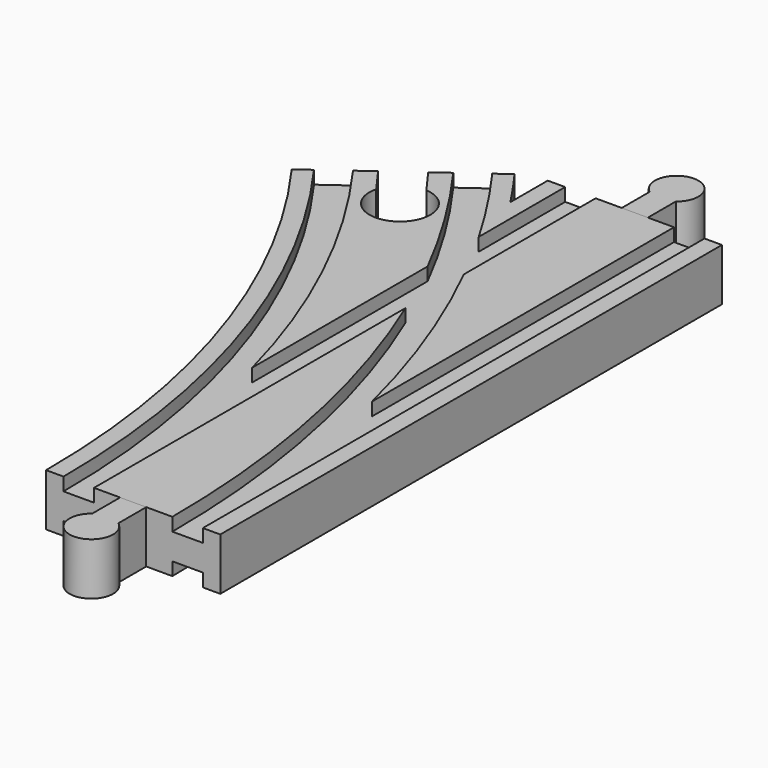
from build123d import *

# Parameters (mm, degrees)
SKETCH004_W       = 7
SKETCH004_H       = 3
SKETCH005_W       = 7
SKETCH005_H       = 3
SKETCH009_W       = 7
SKETCH009_H       = 3
SKETCH010_W       = 7
SKETCH010_H       = 3
POCKET_DEPTH      = 6.001
POCKET_DEPTH_BACK = -6.001
PAD_DEPTH         = 6
PAD001_DEPTH      = 6


with BuildPart() as body:
    # AdditivePipe: sweep along a path in Sketch002
    with BuildLine(Plane.XY) as additivepipe_path:
        ThreePointArc((0, 0), (-10.865453, 68.601773), (-42.398227, 130.488326))
    # Sketch → AdditivePipe (sweep)
    with BuildSketch(Plane.XZ):
        Polygon((-20, 6), (-20, -6), (-16, -6), (-16, -3), (-9, -3), (-9, -6), (9, -6), (9, -3), (16, -3), (16, -6), (20, -6), (20, 6), (16, 6), (16, 3), (9, 3), (9, 6), (-9, 6), (-9, 3), (-16, 3), (-16, 6), align=None)
    sweep(path=additivepipe_path.line)

    # AdditivePipe001: sweep along a path in Sketch001
    with BuildLine(Plane.XY) as additivepipe001_path:
        Line((0, 0), (0, 144))
    # Sketch → AdditivePipe001 (sweep)
    with BuildSketch(Plane.XZ):
        Polygon((-20, 6), (-20, -6), (-16, -6), (-16, -3), (-9, -3), (-9, -6), (9, -6), (9, -3), (16, -3), (16, -6), (20, -6), (20, 6), (16, 6), (16, 3), (9, 3), (9, 6), (-9, 6), (-9, 3), (-16, 3), (-16, 6), align=None)
    sweep(path=additivepipe001_path.line)

    # SubtractivePipe: sweep along a path in Sketch001
    with BuildLine(Plane.XY) as subtractivepipe_path:
        Line((0, 0), (0, 144))
    # Sketch004 → SubtractivePipe (sweep, cut)
    with BuildSketch(Plane.XZ):
        with Locations((-12.5, 4.5)):
            Rectangle(SKETCH004_W, SKETCH004_H)
    sweep(path=subtractivepipe_path.line, mode=Mode.SUBTRACT)

    # SubtractivePipe001: sweep along a path in Sketch002
    with BuildLine(Plane.XY) as subtractivepipe001_path:
        ThreePointArc((0, 0), (-10.865453, 68.601773), (-42.398227, 130.488326))
    # Sketch004 → SubtractivePipe001 (sweep, cut)
    with BuildSketch(Plane.XZ):
        with Locations((-12.5, 4.5)):
            Rectangle(SKETCH004_W, SKETCH004_H)
    sweep(path=subtractivepipe001_path.line, mode=Mode.SUBTRACT)

    # SubtractivePipe002: sweep along a path in Sketch002
    with BuildLine(Plane.XY) as subtractivepipe002_path:
        ThreePointArc((0, 0), (-10.865453, 68.601773), (-42.398227, 130.488326))
    # Sketch005 (on Face1 of SubtractivePipe001) → SubtractivePipe002 (sweep, cut)
    with BuildSketch(Plane.XZ):
        with Locations((12.5, 4.5)):
            Rectangle(SKETCH005_W, SKETCH005_H)
    sweep(path=subtractivepipe002_path.line, mode=Mode.SUBTRACT)

    # SubtractivePipe003: sweep along a path in Sketch001
    with BuildLine(Plane.XY) as subtractivepipe003_path:
        Line((0, 0), (0, 144))
    # Sketch005 (on Face1 of SubtractivePipe001) → SubtractivePipe003 (sweep, cut)
    with BuildSketch(Plane.XZ):
        with Locations((12.5, 4.5)):
            Rectangle(SKETCH005_W, SKETCH005_H)
    subtractivepipe003 = sweep(path=subtractivepipe003_path.line, mode=Mode.SUBTRACT)

    # Mirrored: SubtractivePipe003 across XY
    add(subtractivepipe003.mirror(Plane.XY), mode=Mode.SUBTRACT)

    # SubtractivePipe004: sweep along a path in Sketch002
    with BuildLine(Plane.XY) as subtractivepipe004_path:
        ThreePointArc((0, 0), (-10.865453, 68.601773), (-42.398227, 130.488326))
    # Sketch009 → SubtractivePipe004 (sweep, cut)
    with BuildSketch(Plane.XZ):
        with Locations((-12.5, -4.5)):
            Rectangle(SKETCH009_W, SKETCH009_H)
    sweep(path=subtractivepipe004_path.line, mode=Mode.SUBTRACT)

    # SubtractivePipe005: sweep along a path in Sketch001
    with BuildLine(Plane.XY) as subtractivepipe005_path:
        Line((0, 0), (0, 144))
    # Sketch009 → SubtractivePipe005 (sweep, cut)
    with BuildSketch(Plane.XZ):
        with Locations((-12.5, -4.5)):
            Rectangle(SKETCH009_W, SKETCH009_H)
    sweep(path=subtractivepipe005_path.line, mode=Mode.SUBTRACT)

    # SubtractivePipe006: sweep along a path in Sketch002
    with BuildLine(Plane.XY) as subtractivepipe006_path:
        ThreePointArc((0, 0), (-10.865453, 68.601773), (-42.398227, 130.488326))
    # Sketch010 (on Face1 of SubtractivePipe005) → SubtractivePipe006 (sweep, cut)
    with BuildSketch(Plane.XZ):
        with Locations((12.5, -4.5)):
            Rectangle(SKETCH010_W, SKETCH010_H)
    sweep(path=subtractivepipe006_path.line, mode=Mode.SUBTRACT)

    # Sketch012 → Pocket (cut, two sides)
    with BuildSketch(Plane.XY) as pocket_sk:
        with BuildLine():
            Line((-46.038804, 127.843292), (-38.757651, 133.13336))
            Line((-38.757651, 133.13336), (-34.643154, 127.470241))
            ThreePointArc((-41.924307, 122.180173), (-31.017586, 114.824218), (-34.643154, 127.470241))
            Line((-46.038804, 127.843292), (-41.924307, 122.180173))
        make_face()
    extrude(amount=-POCKET_DEPTH, mode=Mode.SUBTRACT)
    extrude(pocket_sk.sketch, amount=-POCKET_DEPTH_BACK, mode=Mode.SUBTRACT)


with BuildPart() as body001:
    # Sketch008 → Pad (new body, symmetric)
    with BuildSketch(Plane.XY):
        with BuildLine():
            Line((-3, 0), (3, 0))
            Line((3, 0), (3, -8))
            ThreePointArc((-3, -8), (0, -17), (3, -8))
            Line((-3, 0), (-3, -8))
        make_face()
    extrude(amount=PAD_DEPTH, both=True)


with BuildPart() as body002:
    # Sketch011 → Pad001 (new body, symmetric)
    with BuildSketch(Plane.XY):
        with BuildLine():
            Line((-3, 144), (3, 144))
            Line((3, 144), (3, 152))
            ThreePointArc((3, 152), (0, 161), (-3, 152))
            Line((-3, 144), (-3, 152))
        make_face()
    extrude(amount=PAD001_DEPTH, both=True)


solid = Compound([body.part, body001.part, body002.part])
